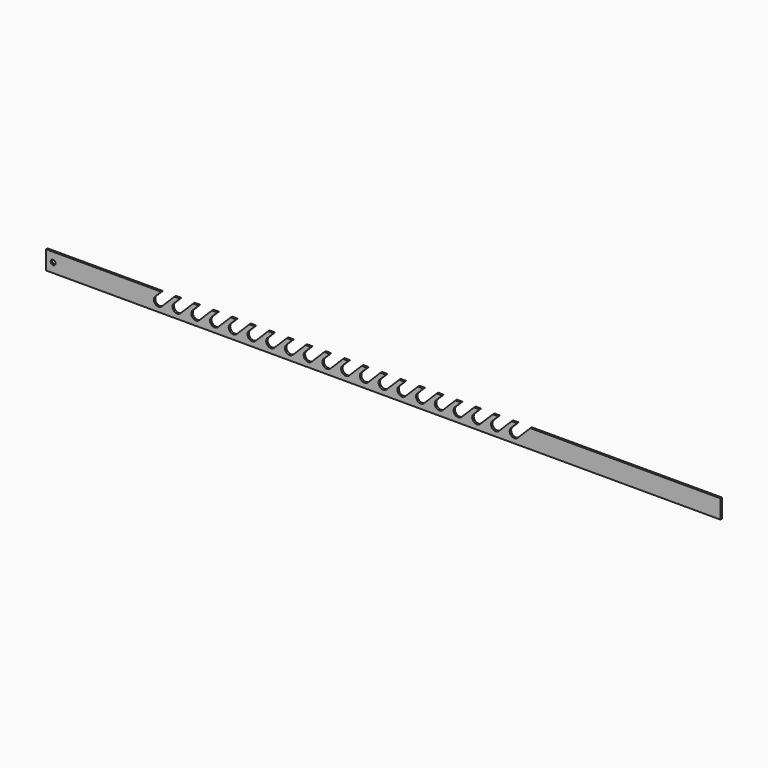
from build123d import *

# Parameters (mm, degrees)
F1_DEPTH = 2.54
F2_R     = 3.2639
F3_DEPTH = 2.541


with BuildPart() as f1:
    # F0 (on Front) → F1 (new body)
    with BuildSketch(Plane.XZ):
        with BuildLine():
            Line((0, 25.4), (0, 0))
            Line((0, 0), (914.4, 0))
            Line((914.4, 0), (914.4, 25.4))
            Line((914.4, 25.4), (656.680256, 25.4))
            Line((656.680256, 25.4), (639.490128, 8.209872))
            ThreePointArc((639.490128, 8.209872), (630.509872, 8.209872), (630.509872, 17.190128))
            Line((630.509872, 17.190128), (638.719744, 25.4))
            Line((638.719744, 25.4), (631.280256, 25.4))
            Line((631.280256, 25.4), (614.090128, 8.209872))
            ThreePointArc((614.090128, 8.209872), (605.109872, 8.209872), (605.109872, 17.190128))
            Line((605.109872, 17.190128), (613.319744, 25.4))
            Line((613.319744, 25.4), (605.880256, 25.4))
            Line((605.880256, 25.4), (588.690128, 8.209872))
            ThreePointArc((588.690128, 8.209872), (579.709872, 8.209872), (579.709872, 17.190128))
            Line((579.709872, 17.190128), (587.919744, 25.4))
            Line((587.919744, 25.4), (580.480256, 25.4))
            Line((580.480256, 25.4), (563.290128, 8.209872))
            ThreePointArc((563.290128, 8.209872), (554.309872, 8.209872), (554.309872, 17.190128))
            Line((554.309872, 17.190128), (562.519744, 25.4))
            Line((562.519744, 25.4), (555.080256, 25.4))
            Line((555.080256, 25.4), (537.890128, 8.209872))
            ThreePointArc((537.890128, 8.209872), (528.909872, 8.209872), (528.909872, 17.190128))
            Line((528.909872, 17.190128), (537.119744, 25.4))
            Line((537.119744, 25.4), (529.680256, 25.4))
            Line((529.680256, 25.4), (512.490128, 8.209872))
            ThreePointArc((512.490128, 8.209872), (503.509872, 8.209872), (503.509872, 17.190128))
            Line((503.509872, 17.190128), (511.719744, 25.4))
            Line((511.719744, 25.4), (504.280256, 25.4))
            Line((504.280256, 25.4), (487.090128, 8.209872))
            ThreePointArc((487.090128, 8.209872), (478.109872, 8.209872), (478.109872, 17.190128))
            Line((478.109872, 17.190128), (486.319744, 25.4))
            Line((486.319744, 25.4), (478.880256, 25.4))
            Line((478.880256, 25.4), (461.690128, 8.209872))
            ThreePointArc((461.690128, 8.209872), (452.709872, 8.209872), (452.709872, 17.190128))
            Line((452.709872, 17.190128), (460.919744, 25.4))
            Line((460.919744, 25.4), (453.480256, 25.4))
            Line((453.480256, 25.4), (436.290128, 8.209872))
            ThreePointArc((436.290128, 8.209872), (427.309872, 8.209872), (427.309872, 17.190128))
            Line((427.309872, 17.190128), (435.519744, 25.4))
            Line((435.519744, 25.4), (428.080256, 25.4))
            Line((428.080256, 25.4), (410.890128, 8.209872))
            ThreePointArc((410.890128, 8.209872), (401.909872, 8.209872), (401.909872, 17.190128))
            Line((401.909872, 17.190128), (410.119744, 25.4))
            Line((410.119744, 25.4), (402.680256, 25.4))
            Line((402.680256, 25.4), (385.490128, 8.209872))
            ThreePointArc((385.490128, 8.209872), (376.509872, 8.209872), (376.509872, 17.190128))
            Line((376.509872, 17.190128), (384.719744, 25.4))
            Line((384.719744, 25.4), (377.280256, 25.4))
            Line((377.280256, 25.4), (360.090128, 8.209872))
            ThreePointArc((360.090128, 8.209872), (351.109872, 8.209872), (351.109872, 17.190128))
            Line((351.109872, 17.190128), (359.319744, 25.4))
            Line((359.319744, 25.4), (351.880256, 25.4))
            Line((351.880256, 25.4), (334.690128, 8.209872))
            ThreePointArc((334.690128, 8.209872), (325.709872, 8.209872), (325.709872, 17.190128))
            Line((325.709872, 17.190128), (333.919744, 25.4))
            Line((333.919744, 25.4), (326.480256, 25.4))
            Line((326.480256, 25.4), (309.290128, 8.209872))
            ThreePointArc((309.290128, 8.209872), (300.309872, 8.209872), (300.309872, 17.190128))
            Line((300.309872, 17.190128), (308.519744, 25.4))
            Line((308.519744, 25.4), (301.080256, 25.4))
            Line((301.080256, 25.4), (283.890128, 8.209872))
            ThreePointArc((283.890128, 8.209872), (274.909872, 8.209872), (274.909872, 17.190128))
            Line((274.909872, 17.190128), (283.119744, 25.4))
            Line((283.119744, 25.4), (275.680256, 25.4))
            Line((275.680256, 25.4), (258.490128, 8.209872))
            ThreePointArc((258.490128, 8.209872), (249.509872, 8.209872), (249.509872, 17.190128))
            Line((249.509872, 17.190128), (257.719744, 25.4))
            Line((257.719744, 25.4), (250.280256, 25.4))
            Line((250.280256, 25.4), (233.090128, 8.209872))
            ThreePointArc((233.090128, 8.209872), (224.109872, 8.209872), (224.109872, 17.190128))
            Line((224.109872, 17.190128), (232.319744, 25.4))
            Line((232.319744, 25.4), (224.880256, 25.4))
            Line((224.880256, 25.4), (207.690128, 8.209872))
            ThreePointArc((207.690128, 8.209872), (198.709872, 8.209872), (198.709872, 17.190128))
            Line((198.709872, 17.190128), (206.919744, 25.4))
            Line((206.919744, 25.4), (199.480256, 25.4))
            Line((199.480256, 25.4), (182.290128, 8.209872))
            ThreePointArc((182.290128, 8.209872), (173.309872, 8.209872), (173.309872, 17.190128))
            Line((173.309872, 17.190128), (181.519744, 25.4))
            Line((181.519744, 25.4), (174.080256, 25.4))
            Line((174.080256, 25.4), (156.890128, 8.209872))
            ThreePointArc((156.890128, 8.209872), (147.909872, 8.209872), (147.909872, 17.190128))
            Line((147.909872, 17.190128), (156.119744, 25.4))
            Line((156.119744, 25.4), (0, 25.4))
        make_face()
    extrude(amount=F1_DEPTH)

    # F2 (on face) → F3 (cut, through all)
    with BuildSketch(Plane.XZ.offset(2.54)):
        with Locations((9.525, 12.7)):
            Circle(F2_R)
    extrude(amount=-F3_DEPTH, mode=Mode.SUBTRACT)


solid = f1.part
